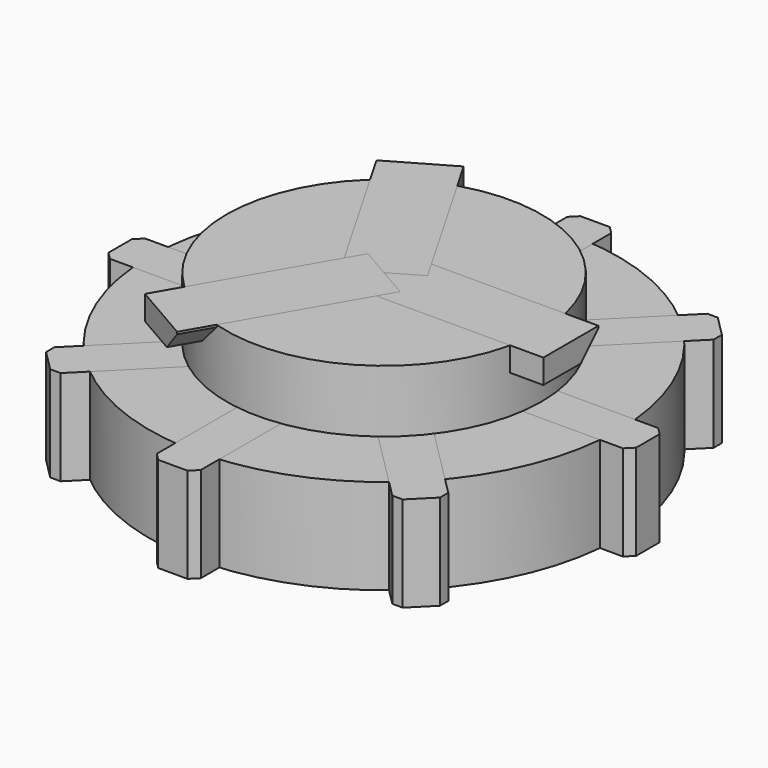
from build123d import *

# Parameters (mm, degrees)
CYLINDER001_R     = 16
CYLINDER001_DEPTH = 6.5
BOX_W             = 18
BOX_H             = 1.5
BOX_DEPTH         = 6.5
CHAMFER_SIZE      = 0.5
BOX001_W          = 18
BOX001_H          = 1.5
BOX001_DEPTH      = 6.5
CHAMFER001_SIZE   = 0.5
ARRAY_COUNT       = 8
CYLINDER_R        = 10.75
CYLINDER_DEPTH    = 10.75
BOX002_W          = 12.75
BOX002_H          = 2.35
BOX002_DEPTH      = 1.65
BOX003_W          = 12.75
BOX003_H          = 2.35
BOX003_DEPTH      = 1.65
CHAMFER002_SIZE   = 1.5
ARRAY001_COUNT    = 3


with BuildPart() as cylinder001:
    # Cylinder001 → Cylinder001 (new body)
    with BuildSketch(Plane.XY):
        Circle(CYLINDER001_R)
    extrude(amount=CYLINDER001_DEPTH)


with BuildPart() as chamfer_body:
    # Box → Box (new body)
    with BuildSketch(Plane.XY):
        with Locations((9, 0.75)):
            Rectangle(BOX_W, BOX_H)
    extrude(amount=BOX_DEPTH)

    # Chamfer
    chamfer_edges = [chamfer_body.edges().sort_by_distance(p)[0] for p in [
        (18, 1.5, 3.25),
    ]]
    chamfer(chamfer_edges, length=CHAMFER_SIZE)


with BuildPart() as array:
    # Box001 → Box001 (new body)
    with BuildSketch(Plane(origin=(0, -1.5, 0), x_dir=(1, 0, 0), z_dir=(0, 0, 1))):
        with Locations((9, 0.75)):
            Rectangle(BOX001_W, BOX001_H)
    extrude(amount=BOX001_DEPTH)

    # Chamfer001
    chamfer001_edges = [array.edges().sort_by_distance(p)[0] for p in [
        (18, -1.5, 3.25),
    ]]
    chamfer(chamfer001_edges, length=CHAMFER001_SIZE)

    # Fusion: union Chamfer body
    add(chamfer_body.part)


with BuildPart() as array_copy1:
    # Array: instance of Array
    add(array.part.rotate(Axis((0, 0, 0), (0, 0, 1)), 1 * 360 / ARRAY_COUNT))


with BuildPart() as array_copy2:
    # Array: instance of Array
    add(array.part.rotate(Axis((0, 0, 0), (0, 0, 1)), 2 * 360 / ARRAY_COUNT))


with BuildPart() as array_copy3:
    # Array: instance of Array
    add(array.part.rotate(Axis((0, 0, 0), (0, 0, 1)), 3 * 360 / ARRAY_COUNT))


with BuildPart() as array_copy4:
    # Array: instance of Array
    add(array.part.rotate(Axis((0, 0, 0), (0, 0, 1)), 4 * 360 / ARRAY_COUNT))


with BuildPart() as array_copy5:
    # Array: instance of Array
    add(array.part.rotate(Axis((0, 0, 0), (0, 0, 1)), 5 * 360 / ARRAY_COUNT))


with BuildPart() as array_copy6:
    # Array: instance of Array
    add(array.part.rotate(Axis((0, 0, 0), (0, 0, 1)), 6 * 360 / ARRAY_COUNT))


with BuildPart() as array_copy7:
    # Array: instance of Array
    add(array.part.rotate(Axis((0, 0, 0), (0, 0, 1)), 7 * 360 / ARRAY_COUNT))


with BuildPart() as cylinder:
    # Cylinder → Cylinder (new body)
    with BuildSketch(Plane.XY):
        Circle(CYLINDER_R)
    extrude(amount=CYLINDER_DEPTH)


with BuildPart() as cube002:
    # Box002 → Box002 (new body)
    with BuildSketch(Plane.XY.offset(9.1)):
        with Locations((6.375, 1.175)):
            Rectangle(BOX002_W, BOX002_H)
    extrude(amount=BOX002_DEPTH)


with BuildPart() as array001:
    # Box003 → Box003 (new body)
    with BuildSketch(Plane(origin=(0, -2.35, 9.1), x_dir=(1, 0, 0), z_dir=(0, 0, 1))):
        with Locations((6.375, 1.175)):
            Rectangle(BOX003_W, BOX003_H)
    extrude(amount=BOX003_DEPTH)

    # Fusion001: union Cube002
    add(cube002.part)

    # Chamfer002
    chamfer002_edges = [array001.edges().sort_by_distance(p)[0] for p in [
        (6.375, 2.35, 9.1),
    ]]
    chamfer(chamfer002_edges, length=CHAMFER002_SIZE)


with BuildPart() as array001_copy1:
    # Array001: instance of Array001
    add(array001.part.rotate(Axis((0, 0, 0), (0, 0, 1)), 1 * 360 / ARRAY001_COUNT))


with BuildPart() as array001_copy2:
    # Array001: instance of Array001
    add(array001.part.rotate(Axis((0, 0, 0), (0, 0, 1)), 2 * 360 / ARRAY001_COUNT))


solid = Compound([cylinder001.part, array.part, array_copy1.part, array_copy2.part, array_copy3.part, array_copy4.part, array_copy5.part, array_copy6.part, array_copy7.part, cylinder.part, array001.part, array001_copy1.part, array001_copy2.part])
